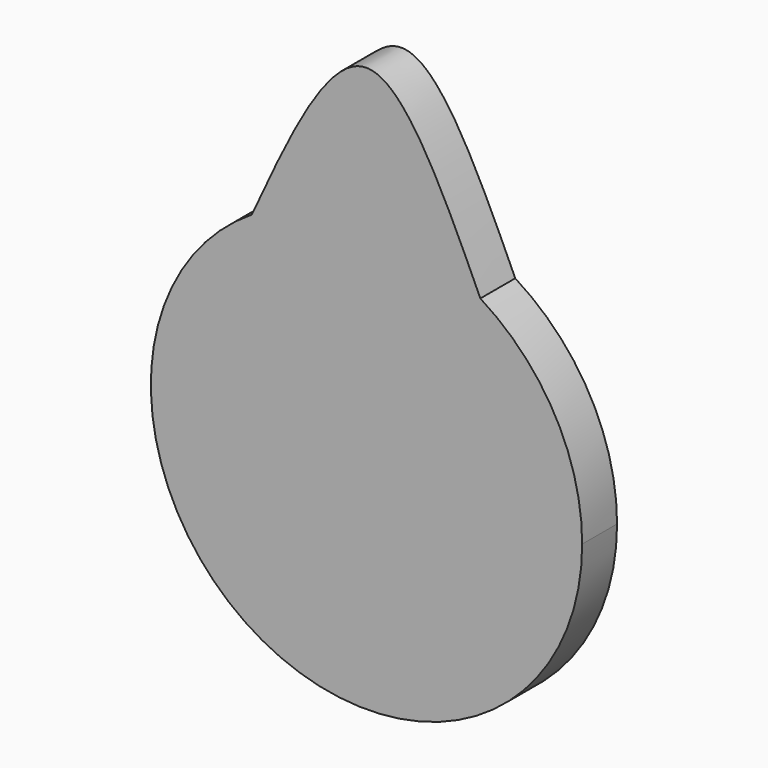
from build123d import *

# Parameters (mm, degrees)
F1_DEPTH = 4.318


with BuildPart() as f1:
    # F0 (on Front) → F1 (new body)
    with BuildSketch(Plane.XZ):
        with BuildLine():
            ThreePointArc((-11.3539322916, 18.0794625243), (-10.32918013, -18.6838642012), (21.3489752365, 0))
            ThreePointArc((21.3489752365, 0), (18.6598323369, 10.3725310704), (11.2698590621, 18.1319888696))
            ThreePointArc((11.2698590621, 18.1319888696), (-0.0495664324, 21.3489176966), (-11.3539322916, 18.0794625243))
        make_face()
        with BuildLine():
            ThreePointArc((-11.3539322916, 18.0794625243), (-0.0495664324, 21.3489176966), (11.2698590621, 18.1319888696))
            add(Edge.make_bspline(
                [(-11.3539322916, 18.0794625243), (-7.5679953721, 26.3332218677), (0.0061397894, 42.7886886353), (7.5213765571, 26.355523972), (11.2698590621, 18.1319888696)],
                knots=[0, 0, 0, 0, 0.5005689321, 1, 1, 1, 1], degree=3))
        make_face()
    extrude(amount=F1_DEPTH)


solid = f1.part
